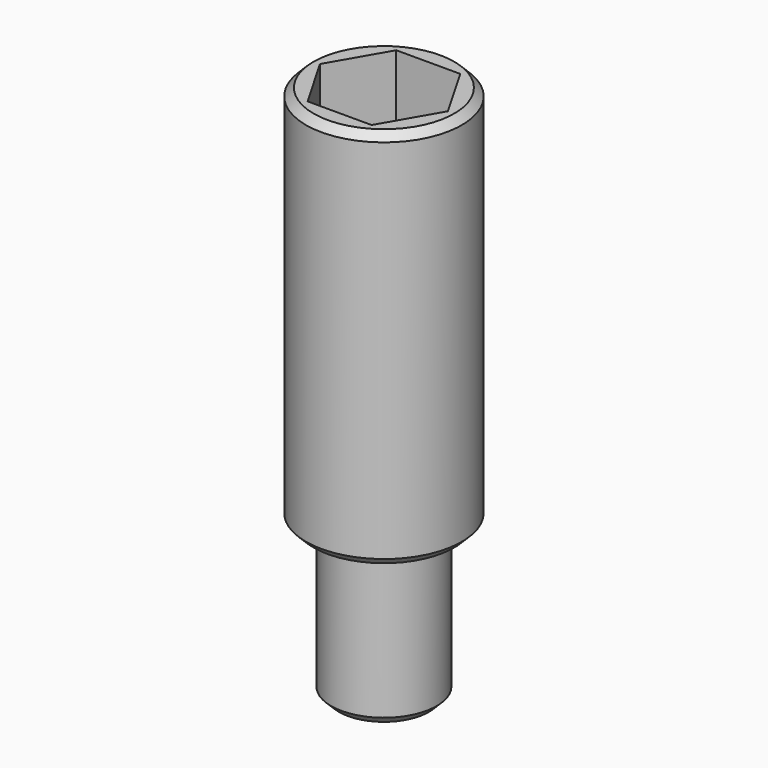
from build123d import *

# Parameters (mm, degrees)
POCKET_DEPTH = 5
CHAMFER_SIZE = 0.5


with BuildPart() as part:
    # Sketch → Revolution (revolve)
    with BuildSketch(Plane.XZ):
        Polygon((-2, -10), (-3.45, -10), (-3.45, 0), (-5.1, 0), (-5.1, 25), (-2, 25), align=None)
    revolve(axis=Axis((0, 0, 0), (0, 0, 1)))

    # Sketch001 (on Face5 of Revolution) → Pocket (cut)
    with BuildSketch(Plane(origin=(0, 0, 25), x_dir=(-1, 0, 0), z_dir=(0, 0, 1))):
        Polygon((2.092895, -3.625), (4.185789, 0), (2.092895, 3.625), (-2.092895, 3.625), (-4.185789, 0), (-2.092895, -3.625), align=None)
    extrude(amount=-POCKET_DEPTH, mode=Mode.SUBTRACT)

    # Chamfer
    chamfer_edges = [part.edges().sort_by_distance(p)[0] for p in [
        (3.45, 0, -10),
        (5.1, 0, 0),
        (5.1, 0, 25),
    ]]
    chamfer(chamfer_edges, length=CHAMFER_SIZE)


solid = part.part
